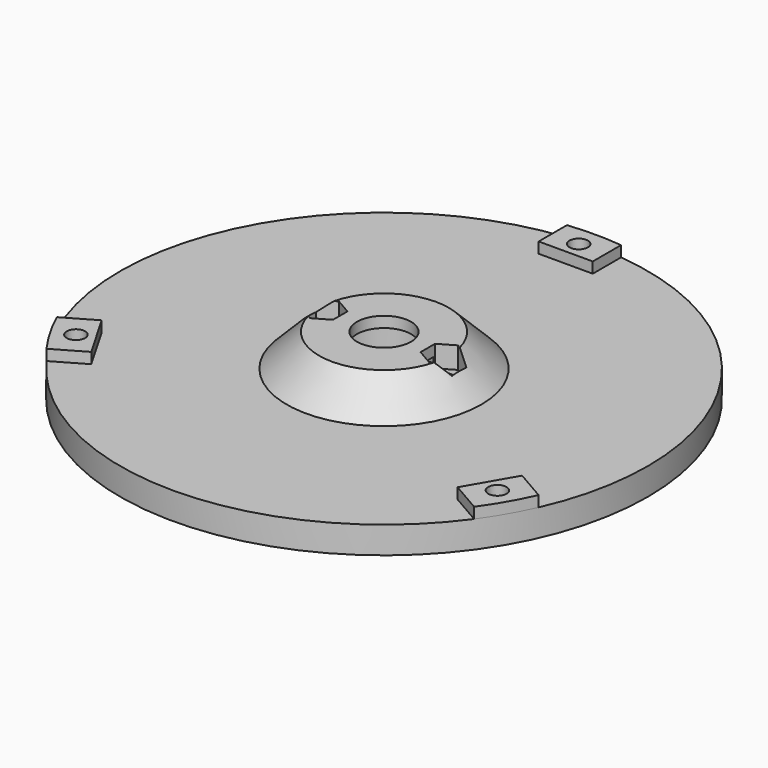
from build123d import *

# Parameters (mm, degrees)
SKETCH001_W        = 30.6
SKETCH001_H        = 7
POCKET_DEPTH       = 4
SKETCH002_R        = 1.7
POCKET001_DEPTH    = 7.001
POCKET002_DEPTH    = 4
PAD_DEPTH          = 2
SKETCH005_R        = 1.7
POCKET003_DEPTH    = 283.930739
SKETCH006_R        = 2.95
POCKET004_DEPTH    = 3
POLARPATTERN_COUNT = 3


with BuildPart() as part:
    # Sketch → Revolution (revolve)
    with BuildSketch(Plane.XZ):
        Polygon((5, 11), (5, 9), (8.2, 9), (8.2, 0), (48.8, 0), (48.8, 5), (18, 5), (12, 11), align=None)
    revolve(axis=Axis((0, 0, 0), (0, 0, 1)))

    # Sketch001 (on Face4 of Revolution) → Pocket (cut)
    with BuildSketch(Plane(origin=(0, 0, 0), x_dir=(1, 0, 0), z_dir=(0, 0, -1))):
        Rectangle(SKETCH001_W, SKETCH001_H)
    extrude(amount=-POCKET_DEPTH, mode=Mode.SUBTRACT)

    # Sketch002 (on Face11 of Pocket) → Pocket001 (cut, through all)
    with BuildSketch(Plane(origin=(0, 0, 4), x_dir=(1, 0, 0), z_dir=(0, 0, -1))):
        with Locations((-11, 0)):
            Circle(SKETCH002_R)
        with Locations((11, 0)):
            Circle(SKETCH002_R)
    extrude(amount=-POCKET001_DEPTH, mode=Mode.SUBTRACT)

    # Sketch003 (on Face2 of Pocket001) → Pocket002 (cut)
    with BuildSketch(Plane(origin=(0, 0, 11), x_dir=(-1, 0, 0), z_dir=(0, 0, 1))):
        Polygon((-11, -3.35), (-8.098815, -1.675), (-8.098815, 1.675), (-11, 3.35), (-13.901185, 1.675), (-13.901185, -1.675), align=None)
        Polygon((11, -3.35), (13.901185, -1.675), (13.901185, 1.675), (11, 3.35), (8.098815, 1.675), (8.098815, -1.675), align=None)
    extrude(amount=-POCKET002_DEPTH, mode=Mode.SUBTRACT)

    # Sketch004 (on Face18 of Pocket002) → Pad (join)
    with BuildSketch(Plane(origin=(0, 0, 5), x_dir=(-1, 0, 0), z_dir=(0, 0, 1))):
        with BuildLine():
            ThreePointArc((-5, -48.543177), (0, -48.8), (5, -48.543177))
            Line((5, -42), (5, -48.543177))
            Line((-5, -42), (5, -42))
            Line((-5, -48.543177), (-5, -42))
        make_face()
    pad = extrude(amount=PAD_DEPTH)

    # Sketch005 (on Face35 of Pad) → Pocket003 (cut, through all)
    with BuildSketch(Plane(origin=(0, 0, 7), x_dir=(-1, 0, 0), z_dir=(0, 0, 1))):
        with Locations((0, -45)):
            Circle(SKETCH005_R)
    pocket003 = extrude(amount=-POCKET003_DEPTH, mode=Mode.SUBTRACT)

    # Sketch006 (on Face23 of Pocket003) → Pocket004 (cut)
    with BuildSketch(Plane(origin=(0, 0, 0), x_dir=(1, 0, 0), z_dir=(0, 0, -1))):
        with Locations((0, -45)):
            Circle(SKETCH006_R)
    pocket004 = extrude(amount=-POCKET004_DEPTH, mode=Mode.SUBTRACT)

    # PolarPattern: Pad, Pocket003, Pocket004 ×3 about axis
    polarpattern_axis = Axis((0, 0, 5), (0, 0, 1))
    for i in range(1, POLARPATTERN_COUNT):
        add(pad.rotate(polarpattern_axis, i * 360 / POLARPATTERN_COUNT))
        add(pocket003.rotate(polarpattern_axis, i * 360 / POLARPATTERN_COUNT), mode=Mode.SUBTRACT)
        add(pocket004.rotate(polarpattern_axis, i * 360 / POLARPATTERN_COUNT), mode=Mode.SUBTRACT)


solid = part.part
